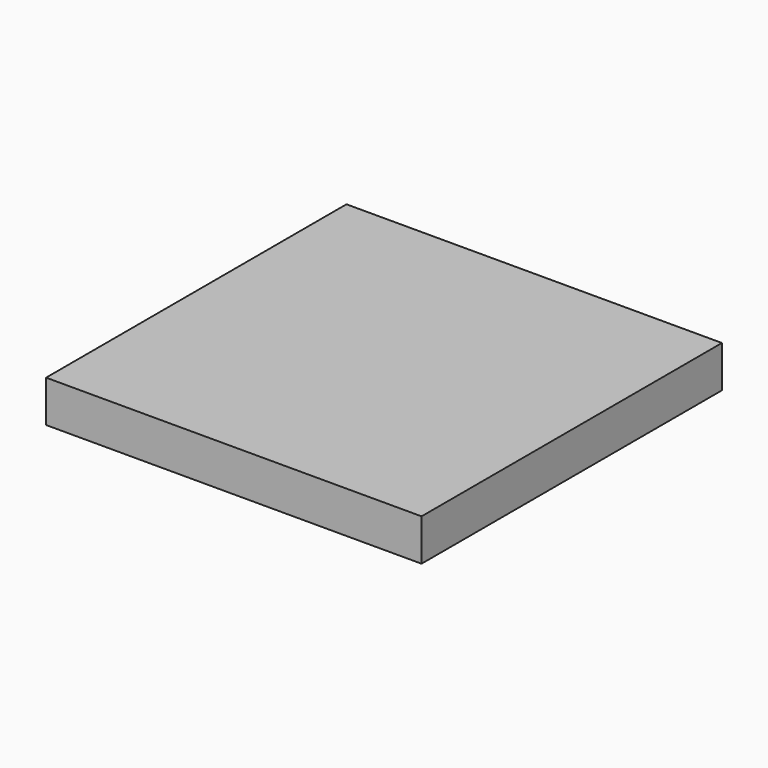
from build123d import *

# Parameters (mm, degrees)
F0_W      = 168
F0_H      = 168
F1_DEPTH  = 20
F1_FACE_W = 168
F1_FACE_H = 20
F2_DEPTH  = 12
F2_FACE_W = 180
F2_FACE_H = 20
F3_DEPTH  = 12


with BuildPart() as f1:
    # F0 (on Top) → F1 (new body)
    with BuildSketch(Plane.XY):
        with Locations((-2e-06, 2.119795)):
            Rectangle(F0_W, F0_H)
    extrude(amount=F1_DEPTH)

    # F1_face (on face) → F2 (join)
    with BuildSketch(Plane(origin=(-2e-06, 86.119795, 10), x_dir=(-1, 0, 0), z_dir=(0, 1, 0))):
        Rectangle(F1_FACE_W, F1_FACE_H)
    extrude(amount=F2_DEPTH)

    # F2_face (on face) → F3 (join)
    with BuildSketch(Plane(origin=(-84.000002, 8.119795, 10), x_dir=(0, -1, 0), z_dir=(-1, 0, 0))):
        Rectangle(F2_FACE_W, F2_FACE_H)
    extrude(amount=F3_DEPTH)


solid = f1.part
